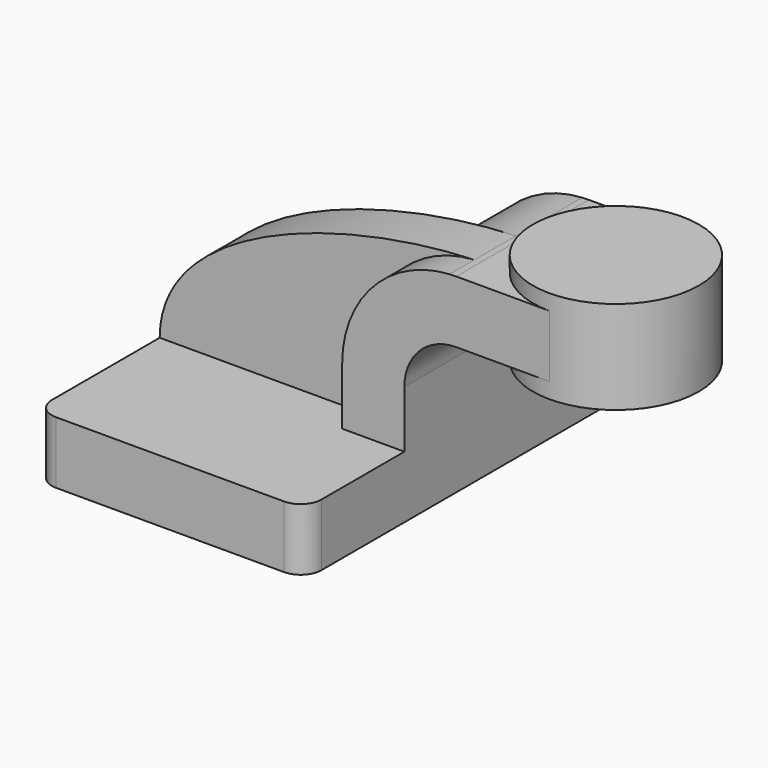
from build123d import *

# Parameters (mm, degrees)
F1_DEPTH = 63.5
F0_W     = 25.4
F0_H     = 19.05
F2_DEPTH = 25.4
F3_DEPTH = 15.875
F5_R     = 6.35


with BuildPart() as f1:
    # F0 (on Front) → F1 (new body, symmetric)
    with BuildSketch(Plane.XZ):
        Polygon((-41.275, 9.525), (-41.275, -9.525), (41.275, -9.525), (41.275, 9.525), (22.225, 9.525), align=None)
    extrude(amount=F1_DEPTH, both=True)

    # F0 (on Front) → F2 (join, symmetric)
    with BuildSketch(Plane.XZ):
        with BuildLine():
            Line((22.225, 9.525), (41.275, 9.525))
            Line((41.275, 9.525), (41.275, 27.0002))
            ThreePointArc((41.275, 27.0002), (45.9246798487, 38.2255201513), (57.15, 42.8752))
            Line((57.15, 42.8752), (60.325, 42.8752))
            Line((60.325, 42.8752), (60.325, 61.9252))
            Line((60.325, 61.9252), (57.15, 61.9252))
            add(Edge.make_bspline(
                [(55.1173299793, 61.8659981063), (55.7992353837, 61.8903574871), (56.4769033555, 61.9100934294), (57.15, 61.9252)],
                knots=[109.6640170226, 109.6640170226, 109.6640170226, 109.6640170226, 111.5045361635, 111.5045361635, 111.5045361635, 111.5045361635], degree=3))
            ThreePointArc((55.1173299793, 61.8659981063), (31.7458012774, 50.9664744761), (22.225, 27.0002))
            Line((22.225, 27.0002), (22.225, 9.525))
        make_face()
        with Locations((73.025, 52.4002)):
            Rectangle(F0_W, F0_H)
    extrude(amount=F2_DEPTH, both=True)

    # F0 (on Front) → F3 (join)
    with BuildSketch(Plane.XZ):
        with BuildLine():
            add(Edge.make_bspline(
                [(-41.275, 9.525), (-41.1864333316, 42.5492431871), (14.4872250181, 60.414588284), (55.1173299793, 61.8659981063)],
                knots=[0, 0, 0, 0, 109.6640170226, 109.6640170226, 109.6640170226, 109.6640170226], degree=3))
            Line((-41.275, 9.525), (22.225, 9.525))
            Line((22.225, 9.525), (22.225, 27.0002))
            ThreePointArc((22.225, 27.0002), (31.7458012774, 50.9664744761), (55.1173299793, 61.8659981063))
        make_face()
    extrude(amount=F3_DEPTH)

    # F0 (on Front) → F4 (revolve)
    with BuildSketch(Plane.XZ):
        Polygon((85.725, 66.675), (85.725, 61.9252), (85.725, 42.8752), (85.725, 38.1), (111.125, 38.1), (111.125, 66.675), align=None)
    revolve(axis=Axis((85.725, 0, 52.3875), (0, 0, 1)))

    # F5
    f5_edges = [f1.edges().sort_by_distance(p)[0] for p in [
        (-41.275, -63.5, 0),
        (41.275, -63.5, 0),
        (-41.275, 63.5, 0),
        (41.275, 63.5, 0),
    ]]
    fillet(f5_edges, radius=F5_R)


solid = f1.part
